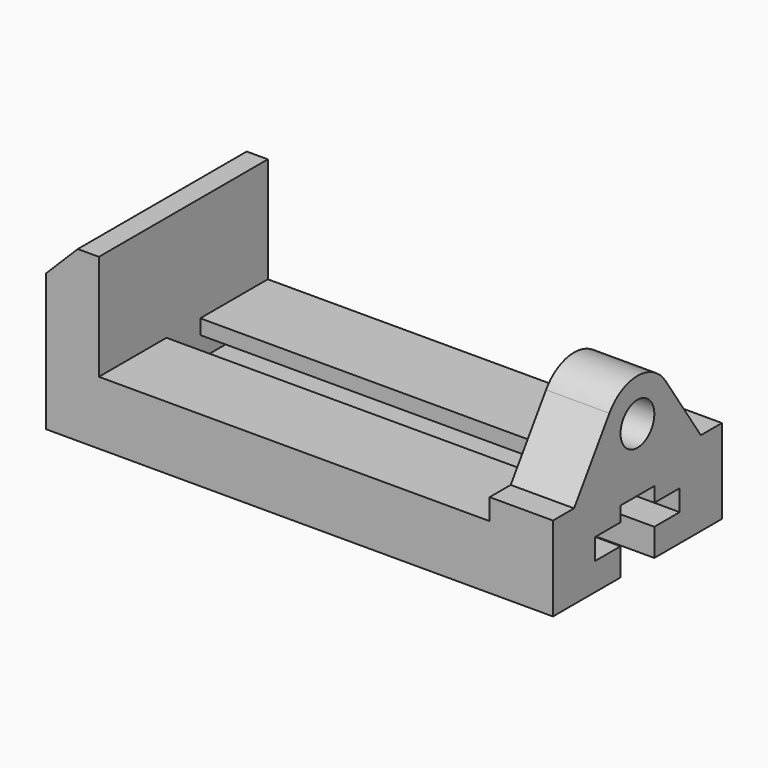
from build123d import *

# Parameters (mm, degrees)
F0_R     = 12.7
F1_DEPTH = 38.1
F3_DEPTH = 234.95
F5_DEPTH = 31.75
F6_SIZE  = 19.05


with BuildPart() as f1:
    # F0 (on Right) → F1 (new body)
    with BuildSketch(Plane.YZ):
        Polygon((0, 38.1), (0, 0), (50.8, 0), (50.8, 16.51), (31.75, 16.51), (31.75, 29.21), (50.8, 29.21), (50.8, 38.1), align=None)
        with BuildLine():
            Line((0, 50.8), (0, 38.1))
            Line((0, 38.1), (50.8, 38.1))
            Line((50.8, 38.1), (76.2, 38.1))
            Line((76.2, 38.1), (127, 38.1))
            Line((127, 38.1), (127, 50.8))
            Line((127, 50.8), (111.125, 50.8))
            Line((111.125, 50.8), (84.5934256055, 90.3501730104))
            ThreePointArc((84.5934256055, 90.3501730104), (63.5, 101.6), (42.4065743945, 90.3501730104))
            Line((42.4065743945, 90.3501730104), (15.875, 50.8))
            Line((15.875, 50.8), (0, 50.8))
        make_face()
        with Locations((63.5, 76.2)):
            Circle(F0_R, mode=Mode.SUBTRACT)
        Polygon((127, 38.1), (76.2, 38.1), (76.2, 29.21), (95.25, 29.21), (95.25, 16.51), (76.2, 16.51), (76.2, 0), (127, 0), align=None)
    extrude(amount=-F1_DEPTH)

    # F2 (on face) → F3 (join)
    with BuildSketch(Plane(origin=(-38.1, 0, 0), x_dir=(0, -1, 0), z_dir=(-1, 0, 0))):
        Polygon((0, 38.1), (-50.8, 38.1), (-50.8, 29.21), (-31.75, 29.21), (-31.75, 16.51), (-50.8, 16.51), (-50.8, 0), (0, 0), align=None)
        Polygon((-76.2, 38.1), (-127, 38.1), (-127, 0), (-76.2, 0), (-76.2, 16.51), (-95.25, 16.51), (-95.25, 29.21), (-76.2, 29.21), align=None)
    extrude(amount=F3_DEPTH)

    # F4 (on face) → F5 (join)
    with BuildSketch(Plane(origin=(-273.05, 0, 0), x_dir=(0, -1, 0), z_dir=(-1, 0, 0))):
        Polygon((-76.2, 16.51), (-76.2, 0), (0, 0), (0, 101.6), (-127, 101.6), (-127, 38.1), (-76.2, 38.1), (-76.2, 29.21), (-95.25, 29.21), (-95.25, 16.51), align=None)
        Polygon((-127, 38.1), (-127, 0), (-76.2, 0), (-76.2, 16.51), (-95.25, 16.51), (-95.25, 29.21), (-76.2, 29.21), (-76.2, 38.1), align=None)
    extrude(amount=F5_DEPTH)

    # F6
    f6_edges = [f1.edges().sort_by_distance(p)[0] for p in [
        (-304.8, 63.5, 101.6),
    ]]
    chamfer(f6_edges, length=F6_SIZE)


solid = f1.part
